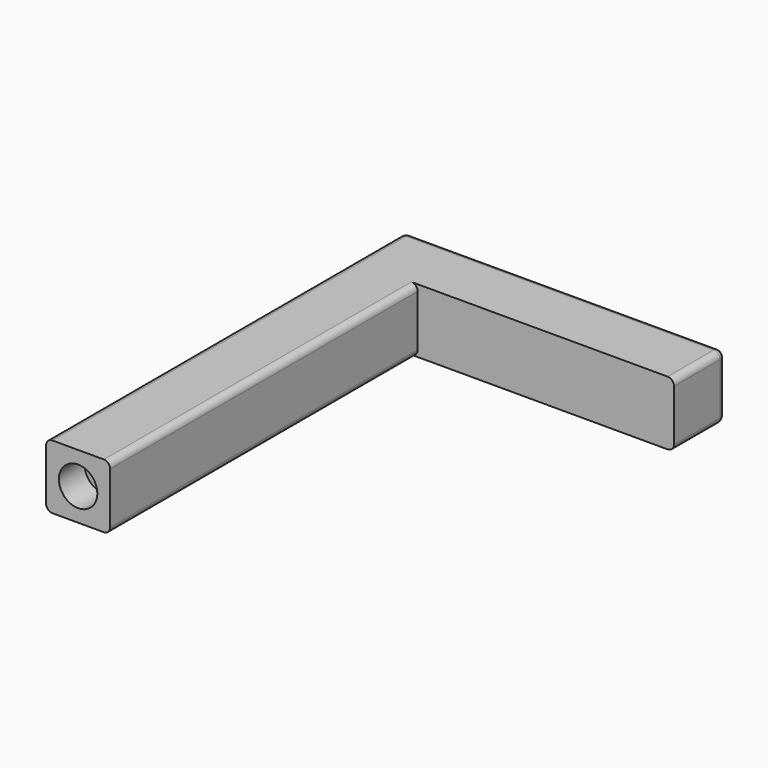
from build123d import *

# Parameters (mm, degrees)
PAD_DEPTH    = 10
FILLET_R     = 1
FILLET001_R  = 1
FILLET002_R  = 1
FILLET003_R  = 1
FILLET004_R  = 1
FILLET005_R  = 1
SKETCH001_R  = 3
POCKET_DEPTH = 5


with BuildPart() as part:
    # Sketch → Pad (new body)
    with BuildSketch(Plane.XY):
        Polygon((10, 0), (10, 70), (60, 70), (60, 60), (20, 60), (20, 0), align=None)
    extrude(amount=PAD_DEPTH)

    # Fillet
    fillet_edges = [part.edges().sort_by_distance(p)[0] for p in [
        (35, 70, 10),
    ]]
    fillet(fillet_edges, radius=FILLET_R)

    # Fillet001
    fillet001_edges = [part.edges().sort_by_distance(p)[0] for p in [
        (35, 70, 0),
    ]]
    fillet(fillet001_edges, radius=FILLET001_R)

    # Fillet002
    fillet002_edges = [part.edges().sort_by_distance(p)[0] for p in [
        (60, 70, 5),
    ]]
    fillet(fillet002_edges, radius=FILLET002_R)

    # Fillet003
    fillet003_edges = [part.edges().sort_by_distance(p)[0] for p in [
        (20, 30, 10),
    ]]
    fillet(fillet003_edges, radius=FILLET003_R)

    # Fillet004
    fillet004_edges = [part.edges().sort_by_distance(p)[0] for p in [
        (20, 30, 0),
    ]]
    fillet(fillet004_edges, radius=FILLET004_R)

    # Fillet005
    fillet005_edges = [part.edges().sort_by_distance(p)[0] for p in [
        (10, 34.5, 10),
    ]]
    fillet(fillet005_edges, radius=FILLET005_R)

    # Sketch001 (on Face1 of Fillet005) → Pocket (cut)
    with BuildSketch(Plane.XZ):
        with Locations((15, 5)):
            Circle(SKETCH001_R)
    extrude(amount=-POCKET_DEPTH, mode=Mode.SUBTRACT)


solid = part.part
